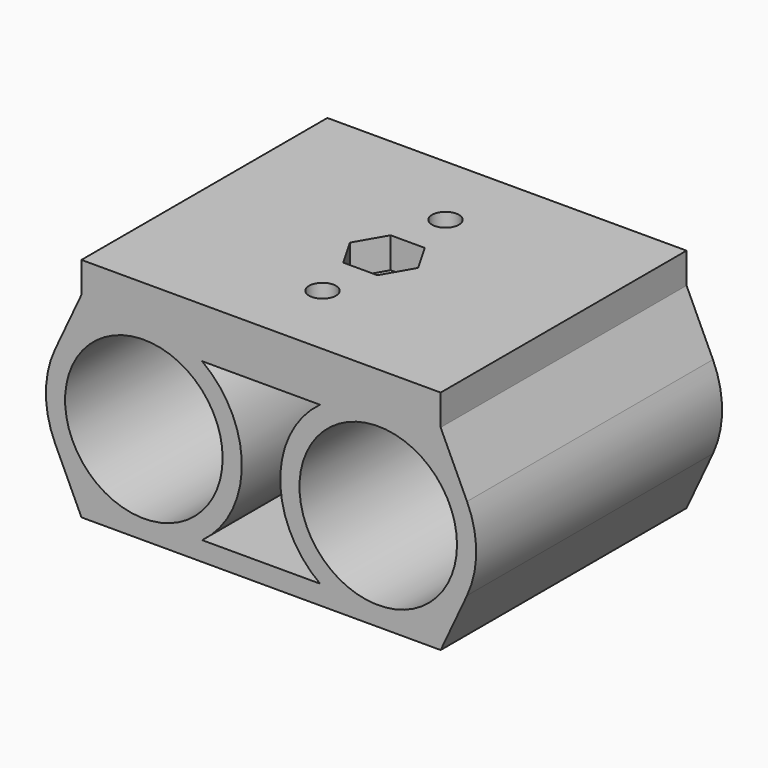
from build123d import *

# Parameters (mm, degrees)
SKETCH021_R     = 10.25
PAD007_DEPTH    = 20
PAD007_FACE1_W  = 40
PAD007_FACE1_H  = 46.7452916506
PAD008_DEPTH    = 4
SKETCH022_R     = 1.75
POCKET007_DEPTH = 6.5
POCKET008_DEPTH = 4
SKETCH024_R     = 2.5
POCKET009_DEPTH = 29.501


with BuildPart() as part:
    # Sketch021 → Pad007 (new body, symmetric)
    with BuildSketch(Plane.XZ):
        with BuildLine():
            Line((23.3726458253, 0), (-23.3726458253, 0))
            Line((-23.3726458253, 0), (-26.8054242847, -7.3616171628))
            ThreePointArc((-26.8054242847, -7.3616171628), (-28, -12.75), (-26.8054242847, -18.1383828372))
            Line((-26.8054242847, -18.1383828372), (-23.3726458253, -25.5))
            Line((-23.3726458253, -25.5), (23.3726458253, -25.5))
            Line((23.3726458253, -25.5), (26.8054242847, -18.1383828372))
            ThreePointArc((26.8054242847, -18.1383828372), (28, -12.75), (26.8054242847, -7.3616171628))
            Line((23.3726458253, 0), (26.8054242847, -7.3616171628))
        make_face()
        with Locations((15.25, -12.75)):
            Circle(SKETCH021_R, mode=Mode.SUBTRACT)
        with Locations((-15.25, -12.75)):
            Circle(SKETCH021_R, mode=Mode.SUBTRACT)
        with BuildLine():
            Line((-7.6671245559, -2.5), (7.6671245559, -2.5))
            ThreePointArc((7.6671245559, -2.5), (2.5, -12.75), (7.6671245559, -23))
            Line((-7.6671245559, -23), (7.6671245559, -23))
            ThreePointArc((-7.6671245559, -23), (-2.5, -12.75), (-7.6671245559, -2.5))
        make_face(mode=Mode.SUBTRACT)
    extrude(amount=PAD007_DEPTH, both=True)

    # Pad007 Face1 → Pad008 (add)
    with BuildSketch(Plane(origin=(0, 0, 0), x_dir=(0, 1, 0), z_dir=(0, 0, 1))):
        Rectangle(PAD007_FACE1_W, PAD007_FACE1_H)
    extrude(amount=PAD008_DEPTH)

    # Sketch022 → Pocket007 (cut)
    with BuildSketch(Plane(origin=(0, 0, 4), x_dir=(-1, 0, 0), z_dir=(0, 0, 1))):
        with Locations((0, 10)):
            Circle(SKETCH022_R)
        with Locations((0, -10)):
            Circle(SKETCH022_R)
    extrude(amount=-POCKET007_DEPTH, mode=Mode.SUBTRACT)

    # Sketch023 (on Face6 of Pocket007) → Pocket008 (cut)
    with BuildSketch(Plane(origin=(0, 0, 4), x_dir=(-1, 0, 0), z_dir=(0, 0, 1))):
        Polygon((2.225, -3.8538130468), (4.45, 0), (2.225, 3.8538130468), (-2.225, 3.8538130468), (-4.45, 0), (-2.225, -3.8538130468), align=None)
    extrude(amount=-POCKET008_DEPTH, mode=Mode.SUBTRACT)

    # Sketch024 (on Face6 of Pocket008) → Pocket009 (cut, through all)
    with BuildSketch(Plane(origin=(0, 0, 4), x_dir=(-1, 0, 0), z_dir=(0, 0, 1))):
        Circle(SKETCH024_R)
    extrude(amount=-POCKET009_DEPTH, mode=Mode.SUBTRACT)


solid = part.part
